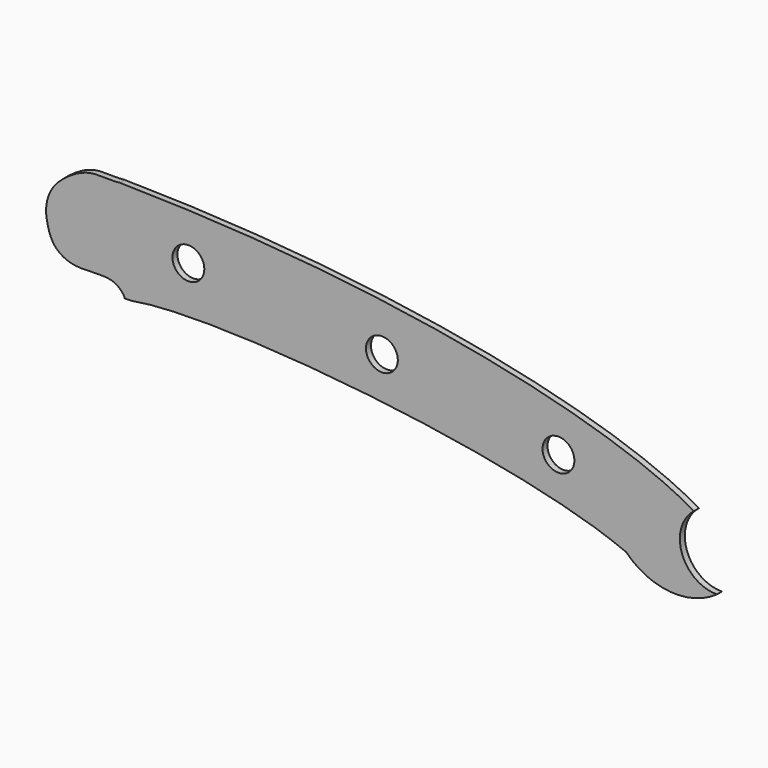
from build123d import *

# Parameters (mm, degrees)
F0_R     = 1.9433304257
F1_DEPTH = 0.762


with BuildPart() as f1:
    # F0 (on Front) → F1 (new body)
    with BuildSketch(Plane.XZ):
        with BuildLine():
            Line((6.2936257383, 24.461550422), (7.1120347588, 24.4810397347))
            add(Edge.make_bspline(
                [(7.1120347588, 24.4810397347), (17.9456137121, 26.5047568312), (53.7778158942, 22.9459838156), (67.5089657307, 17.11815963)],
                knots=[0, 0, 0, 0, 60.8440734522, 60.8440734522, 60.8440734522, 60.8440734522], degree=3))
            ThreePointArc((67.5089657307, 17.11815963), (72.8801181474, 14.599466087), (78.6011303451, 16.1688974746))
            ThreePointArc((78.6011303451, 16.1688974746), (74.3264231683, 19.1846421759), (75.7914702211, 24.2067408093))
            add(Edge.make_bspline(
                [(5.7000220775, 36.7046440834), (38.9690002201, 36.2990938844), (65.5050632655, 30.3288914663), (75.7914702211, 24.2067408093)],
                knots=[49.2791244048, 49.2791244048, 49.2791244048, 49.2791244048, 120.8674737906, 120.8674737906, 120.8674737906, 120.8674737906], degree=3))
            add(Edge.make_bspline(
                [(5.7000220775, 36.7046440834), (4.7674111969, 36.56907093), (2.2736360124, 36.9596356417), (-0.4323623378, 35.5931844536), (-2.5996584226, 33.7701513912), (-3.4412804307, 31.3763545138), (-3.1953223859, 29.4315883565), (-2.5118643312, 27.1796604923), (-0.0556685355, 25.7171333042), (3.5084893901, 26.1674166375), (5.3193226774, 25.8164517785), (6.2642945965, 24.7922272319), (6.2936257383, 24.461550422)],
                knots=[0, 0, 0, 0, 0.1158549783, 0.2261015206, 0.3320412877, 0.430315022, 0.5187678093, 0.6131658652, 0.7165545118, 0.83594527, 0.9234489622, 1, 1, 1, 1], degree=3))
        make_face()
        with Locations((59.2509422454, 24.8946035713)):
            Circle(F0_R, mode=Mode.SUBTRACT)
        with Locations((14.0698300675, 30.7800769806)):
            Circle(F0_R, mode=Mode.SUBTRACT)
        with Locations((37.6955829561, 28.6768935621)):
            Circle(F0_R, mode=Mode.SUBTRACT)
    extrude(amount=F1_DEPTH)


solid = f1.part
